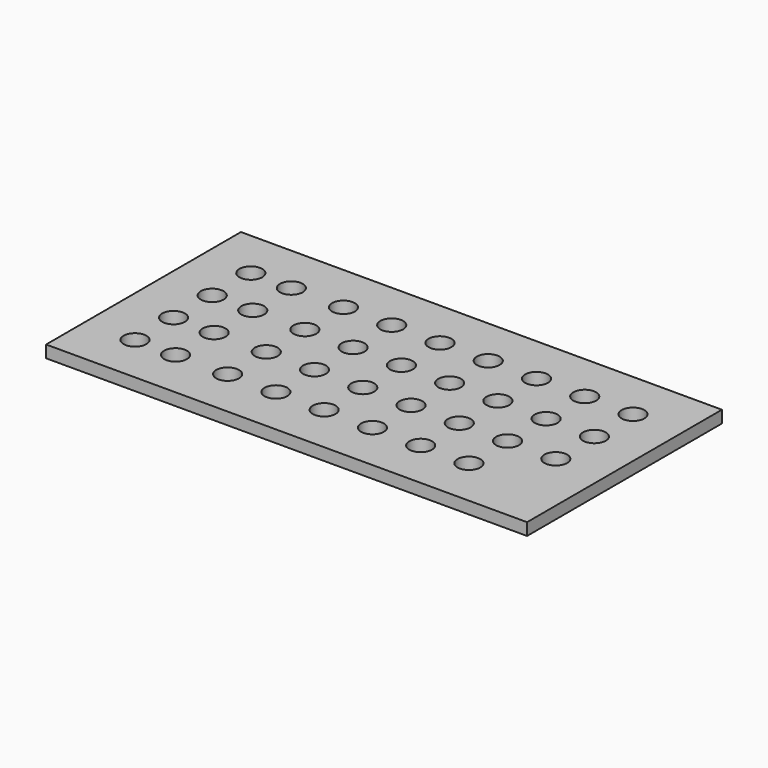
from build123d import *

# Parameters (mm, degrees)
F0_W     = 63.292
F0_H     = 32.05
F0_R     = 1.5
F1_DEPTH = 1.6


with BuildPart() as f1:
    # F0 (on Top) → F1 (new body)
    with BuildSketch(Plane.XY):
        with Locations((12.954, 9.525)):
            Rectangle(F0_W, F0_H)
        with Locations((-12.192, 0)):
            Circle(F0_R, mode=Mode.SUBTRACT)
        with Locations((-6.858, 0)):
            Circle(F0_R, mode=Mode.SUBTRACT)
        Circle(F0_R, mode=Mode.SUBTRACT)
        with Locations((6.35, 0)):
            Circle(F0_R, mode=Mode.SUBTRACT)
        with Locations((12.7, 0)):
            Circle(F0_R, mode=Mode.SUBTRACT)
        with Locations((-12.192, 6.35)):
            Circle(F0_R, mode=Mode.SUBTRACT)
        with Locations((-6.858, 6.35)):
            Circle(F0_R, mode=Mode.SUBTRACT)
        with Locations((0, 6.35)):
            Circle(F0_R, mode=Mode.SUBTRACT)
        with Locations((6.35, 6.35)):
            Circle(F0_R, mode=Mode.SUBTRACT)
        with Locations((12.7, 6.35)):
            Circle(F0_R, mode=Mode.SUBTRACT)
        with Locations((19.05, 0)):
            Circle(F0_R, mode=Mode.SUBTRACT)
        with Locations((25.4, 0)):
            Circle(F0_R, mode=Mode.SUBTRACT)
        with Locations((31.75, 0)):
            Circle(F0_R, mode=Mode.SUBTRACT)
        with Locations((19.05, 6.35)):
            Circle(F0_R, mode=Mode.SUBTRACT)
        with Locations((25.4, 6.35)):
            Circle(F0_R, mode=Mode.SUBTRACT)
        with Locations((31.75, 6.35)):
            Circle(F0_R, mode=Mode.SUBTRACT)
        with Locations((38.1, 6.35)):
            Circle(F0_R, mode=Mode.SUBTRACT)
        with Locations((-12.192, 12.7)):
            Circle(F0_R, mode=Mode.SUBTRACT)
        with Locations((-6.858, 12.7)):
            Circle(F0_R, mode=Mode.SUBTRACT)
        with Locations((0, 12.7)):
            Circle(F0_R, mode=Mode.SUBTRACT)
        with Locations((6.35, 12.7)):
            Circle(F0_R, mode=Mode.SUBTRACT)
        with Locations((12.7, 12.7)):
            Circle(F0_R, mode=Mode.SUBTRACT)
        with Locations((-12.192, 19.05)):
            Circle(F0_R, mode=Mode.SUBTRACT)
        with Locations((-6.858, 19.05)):
            Circle(F0_R, mode=Mode.SUBTRACT)
        with Locations((0, 19.05)):
            Circle(F0_R, mode=Mode.SUBTRACT)
        with Locations((6.35, 19.05)):
            Circle(F0_R, mode=Mode.SUBTRACT)
        with Locations((12.7, 19.05)):
            Circle(F0_R, mode=Mode.SUBTRACT)
        with Locations((19.05, 12.7)):
            Circle(F0_R, mode=Mode.SUBTRACT)
        with Locations((25.4, 12.7)):
            Circle(F0_R, mode=Mode.SUBTRACT)
        with Locations((31.75, 12.7)):
            Circle(F0_R, mode=Mode.SUBTRACT)
        with Locations((38.1, 12.7)):
            Circle(F0_R, mode=Mode.SUBTRACT)
        with Locations((19.05, 19.05)):
            Circle(F0_R, mode=Mode.SUBTRACT)
        with Locations((25.4, 19.05)):
            Circle(F0_R, mode=Mode.SUBTRACT)
        with Locations((31.75, 19.05)):
            Circle(F0_R, mode=Mode.SUBTRACT)
        with Locations((38.1, 19.05)):
            Circle(F0_R, mode=Mode.SUBTRACT)
    extrude(amount=F1_DEPTH)


solid = f1.part
